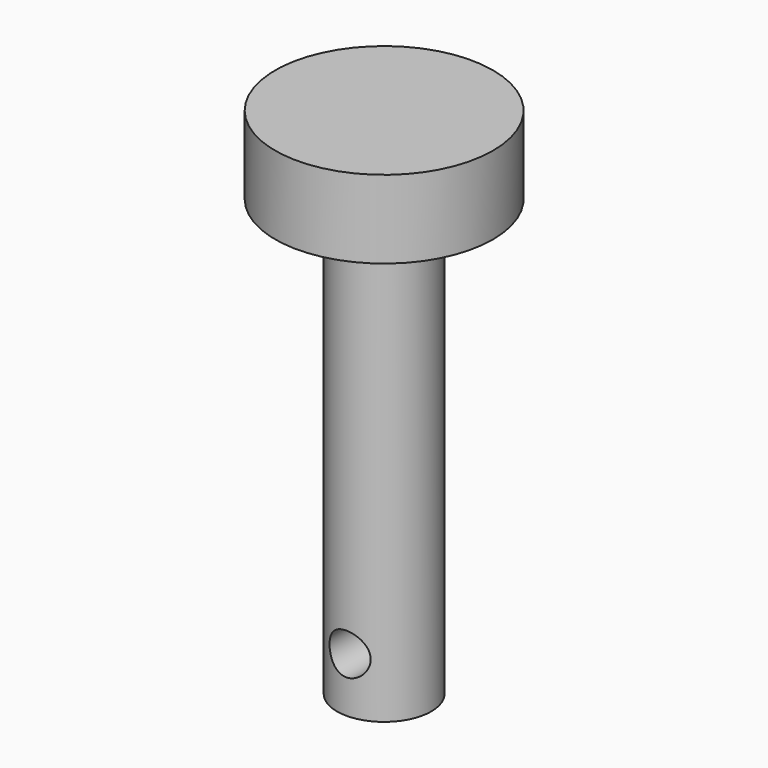
from build123d import *

# Parameters (mm, degrees)
F0_R     = 1.651
F1_DEPTH = 15.24
F2_W     = 3.81
F2_H     = 2.733839
F4_R     = 0.719831
F5_DEPTH = 3.811
F6_DEPTH = 3.811


with BuildPart() as f1:
    # F0 (on Top) → F1 (new body)
    with BuildSketch(Plane.XY):
        Circle(F0_R)
    extrude(amount=F1_DEPTH)

    # F2 (on Front) → F3 (revolve)
    with BuildSketch(Plane.XZ):
        with Locations((1.905, 16.606919)):
            Rectangle(F2_W, F2_H)
    revolve(axis=Axis((0, 0, 16.606919), (0, 0, 1)))

    # F4 (on Front) → F5 (cut, through all)
    with BuildSketch(Plane.XZ):
        with Locations((0, 1.905)):
            Circle(F4_R)
    extrude(amount=-F5_DEPTH, mode=Mode.SUBTRACT)

    # F4 (on Front) → F6 (cut, through all)
    with BuildSketch(Plane.XZ):
        with Locations((0, 1.905)):
            Circle(F4_R)
    extrude(amount=F6_DEPTH, mode=Mode.SUBTRACT)


solid = f1.part
